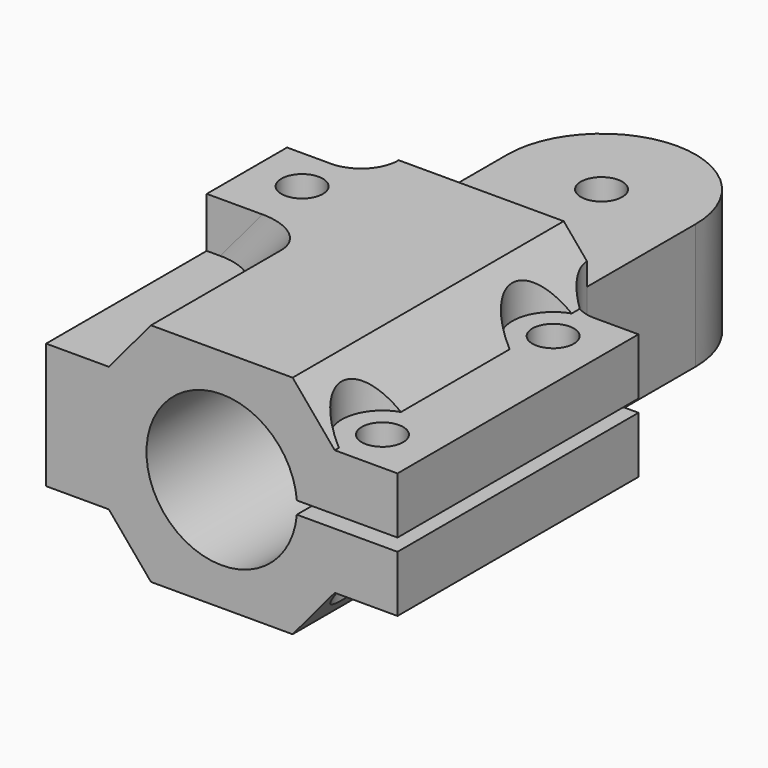
from build123d import *

# Parameters (mm, degrees)
F2_DEPTH        = 9
F3_R            = 6
F4_DEPTH        = 24
F6_DEPTH        = 45.3215080757
F7_DEPTH        = 16
F8_R            = 3
F10_DEPTH       = 21.501
F12_D           = 3.3
F12_START       = 4
F12_CBORE_D     = 6.5
F12_CBORE_DEPTH = 0
F14_D           = 3.3
F14_START       = 4
F14_CBORE_D     = 6.5
F14_CBORE_DEPTH = 0
F15_W           = 27
F15_H           = 1
F16_DEPTH       = 30


with BuildPart() as f2:
    # F1 (on Top) → F2 (new body, symmetric)
    with BuildSketch(Plane.XY):
        with BuildLine():
            ThreePointArc((-7.5, 0), (0, -7.5), (7.5, 0))
            ThreePointArc((7.5, 0), (0, 7.5), (-7.5, 0))
        make_face()
        with BuildLine():
            Line((7.5, -13.8205080757), (7.5, 0))
            ThreePointArc((7.5, 0), (0, -7.5), (-7.5, 0))
            Line((-7.5, 0), (-7.5, -13.8205080757))
            Line((-7.5, -13.8205080757), (-14, -13.8205080757))
            Line((-14, -13.8205080757), (-14, -37.8205080757))
            Line((-14, -37.8205080757), (14, -37.8205080757))
            Line((14, -37.8205080757), (14, -13.8205080757))
            Line((14, -13.8205080757), (7.5, -13.8205080757))
        make_face()
    extrude(amount=F2_DEPTH, both=True)

    # F3 (on face) → F4 (cut)
    with BuildSketch(Plane.XZ.offset(37.8205080757)):
        Circle(F3_R)
    extrude(amount=-F4_DEPTH, mode=Mode.SUBTRACT)

    # F5 (on face) → F6 (cut, through all)
    with BuildSketch(Plane.XZ.offset(37.8205080757)):
        Polygon((14, 9), (5.6436014753, 9), (9, 5), (14, 5), align=None)
        Polygon((14, -9), (14, -5), (9, -5), (5.6436014753, -9), align=None)
    extrude(amount=-F6_DEPTH, mode=Mode.SUBTRACT)

    # F5 (on face) → F7 (cut)
    with BuildSketch(Plane.XZ.offset(37.8205080757)):
        Polygon((-9, 5), (-5.6436014753, 9), (-14, 9), (-14, 5), align=None)
        Polygon((-9, -5), (-14, -5), (-14, -9), (-5.6436014753, -9), align=None)
    extrude(amount=-F7_DEPTH, mode=Mode.SUBTRACT)

    # F8
    f8_edges = [f2.edges().sort_by_distance(p)[0] for p in [
        (7.5, -13.820508, 0),
        (-7.5, -13.820508, 0),
        (-7.321801, -21.820508, 7),
        (-7.321801, -21.820508, -7),
    ]]
    fillet(f8_edges, radius=F8_R)

    # F9 (on face) → F10 (cut, through all)
    with BuildSketch(Plane.YZ.offset(7.5)):
        Polygon((9.9274870008, 9), (4.9396115625, 9), (-10.8205080757, 9), (-10.8205080757, 6.7876303889), (-10.8205080757, 5), (9.9274870008, 5), align=None)
        Polygon((9.9274870008, -5), (-10.8205080757, -5), (-10.8205080757, -6.7876303889), (-10.8205080757, -9), (9.9274870008, -9), align=None)
    extrude(amount=-F10_DEPTH, mode=Mode.SUBTRACT)

    # F12 (through all)
    # its depths count from where the whole tool has entered the part; down to there all is cleared
    with Locations(Plane.XY.offset(9)):
        with Locations((10, -34.3205080757, -F12_START), (10, -17.3205080757, -F12_START), (0, 0, -F12_START), (-10, -17.3205080757, 0)):
            CounterBoreHole(F12_D / 2, F12_CBORE_D / 2, F12_CBORE_DEPTH)

    # F14 (through all)
    # its depths count from where the whole tool has entered the part; down to there all is cleared
    with Locations(Plane(origin=(0, 0, -9), x_dir=(1, 0, 0), z_dir=(0, 0, -1)).offset(-F14_START)):
        with Locations((10, 34.3205080757), (10, 17.3205080757)):
            CounterBoreHole(F14_D / 2, F14_CBORE_D / 2, F14_CBORE_DEPTH)

    # F15 (on Right) → F16 (cut)
    with BuildSketch(Plane.YZ):
        with Locations((-24.3205080757, 0)):
            Rectangle(F15_W, F15_H)
    extrude(amount=F16_DEPTH, mode=Mode.SUBTRACT)


solid = f2.part
